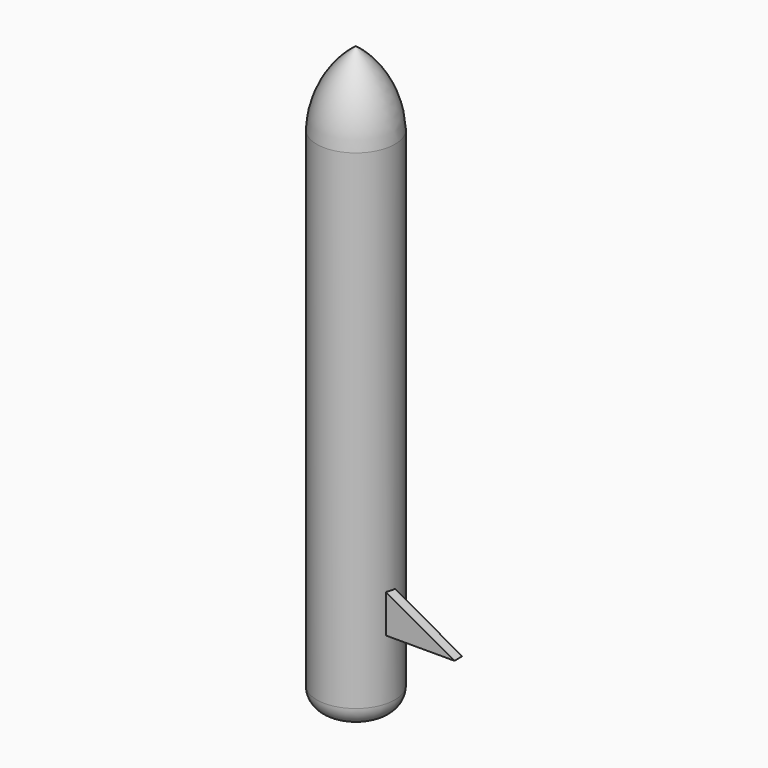
from build123d import *

# Parameters (mm, degrees)
F2_R     = 5.08
F4_DEPTH = 2.54


with BuildPart() as f1:
    # F0 (on Front) → F1 (revolve)
    with BuildSketch(Plane.XZ):
        with BuildLine():
            ThreePointArc((10.217104, 56.553833), (7.310855, 67.362216), (0, 75.836815))
            Line((0, 75.836815), (0, -76.412432))
            Line((0, -76.412432), (10.217104, -76.412432))
            Line((10.217104, -76.412432), (10.217104, 56.553833))
        make_face()
    revolve(axis=Axis((0, 0, -0.287808), (0, 0, -1)))

    # F2
    f2_edges = [f1.edges().sort_by_distance(p)[0] for p in [
        (-10.217104, 0, -76.412432),
    ]]
    fillet(f2_edges, radius=F2_R)

    # F3 (on Front) → F4 (join)
    with BuildSketch(Plane.XZ):
        Polygon((27.811967, -55.586051), (0, -40.022876), (0, -55.586051), align=None)
    extrude(amount=F4_DEPTH)


solid = f1.part
